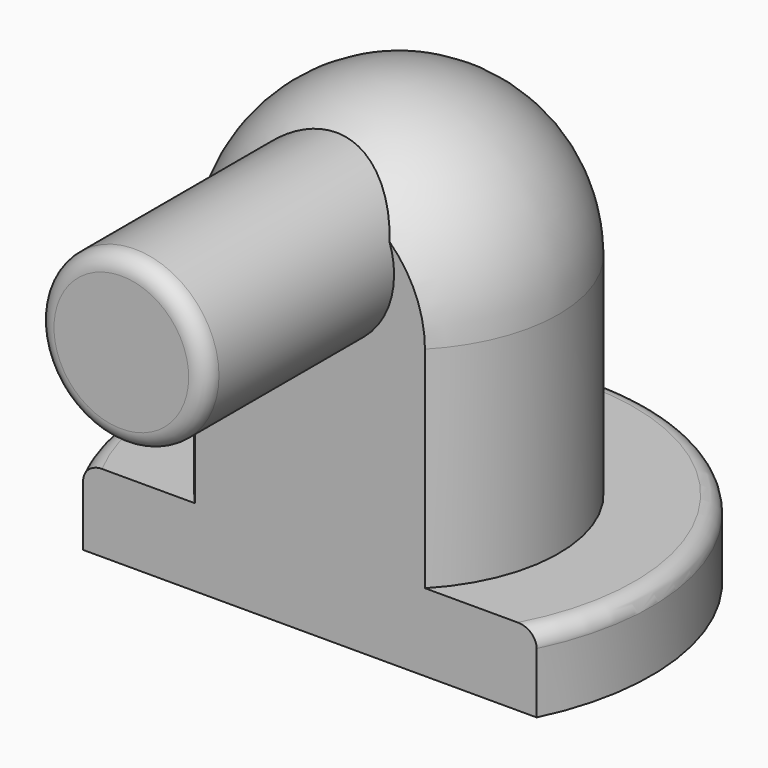
from build123d import *

# Parameters (mm, degrees)
F0_R          = 7.5
F1_DEPTH      = 2.3
F2_R          = 4.75
F3_DEPTH      = 11
F4_R          = 4.75
F6_START      = 3.3
F5_W          = 25.7861725986
F5_H          = 21.5545939282
F6_DEPTH      = 4.201
F7_R          = 2.5
F8_DEPTH      = 7
F8_DEPTH_BACK = 2
F9_R          = 0.5
F10_R         = 0.5


with BuildPart() as f1:
    # F0 (on Top) → F1 (new body)
    with BuildSketch(Plane.XY):
        Circle(F0_R)
    extrude(amount=F1_DEPTH)

    # F2 (on face) → F3 (join)
    with BuildSketch(Plane.XY.offset(2.3)):
        Circle(F2_R)
    extrude(amount=F3_DEPTH)

    # F4
    f4_edges = [f1.edges().sort_by_distance(p)[0] for p in [
        (-4.75, 0, 13.3),
    ]]
    fillet(f4_edges, radius=F4_R)

    # F5 (on Front) → F6 (cut)
    with BuildSketch(Plane.XZ.offset(F6_START)):
        with Locations((0.3588497639, 6.3574551605)):
            Rectangle(F5_W, F5_H)
    extrude(amount=F6_DEPTH, mode=Mode.SUBTRACT)

    # F7 (on face) → F8 (join, two sides)
    with BuildSketch(Plane.XZ.offset(3.3)) as f8_sk:
        with Locations((0, 10.2)):
            Circle(F7_R)
    extrude(amount=F8_DEPTH)
    extrude(f8_sk.sketch, amount=-F8_DEPTH_BACK)

    # F9
    f9_edges = [f1.edges().sort_by_distance(p)[0] for p in [
        (0, 7.5, 2.3),
    ]]
    fillet(f9_edges, radius=F9_R)

    # F10
    f10_edges = [f1.edges().sort_by_distance(p)[0] for p in [
        (-2.5, -10.3, 10.2),
    ]]
    fillet(f10_edges, radius=F10_R)


solid = f1.part
